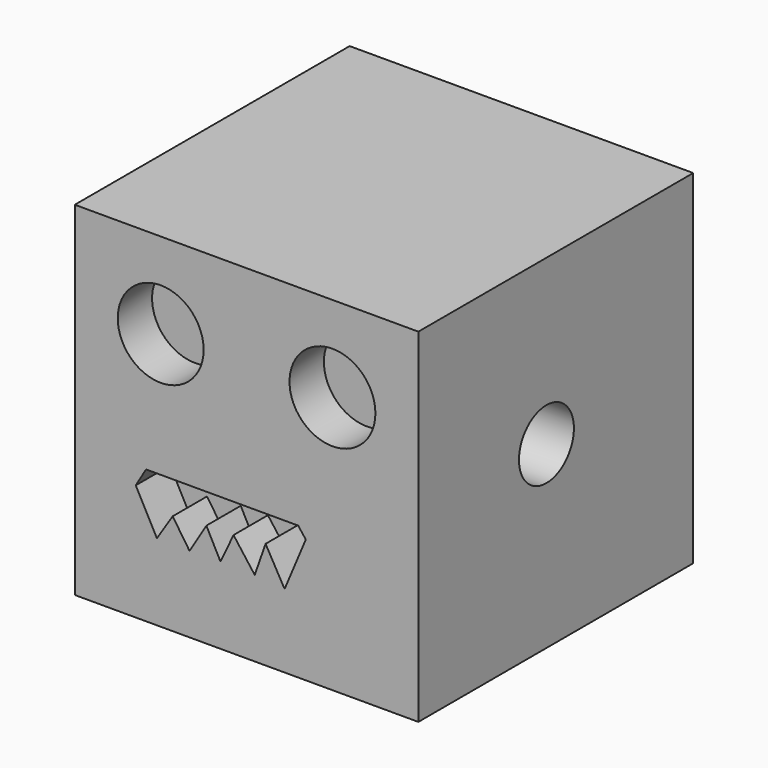
from build123d import *

# Parameters (mm, degrees)
F0_W     = 20
F0_H     = 20
F1_DEPTH = 20
F2_R     = 2.5
F3_DEPTH = 2.5
F4_R     = 2.5
F5_DEPTH = 2.5
F7_DEPTH = 2.5
F8_R     = 2
F9_DEPTH = 6


with BuildPart() as f1:
    # F0 (on Front) → F1 (new body)
    with BuildSketch(Plane.XZ):
        with Locations((-28.577724, 9.489656)):
            Rectangle(F0_W, F0_H)
    extrude(amount=F1_DEPTH)

    # F2 (on face) → F3 (cut)
    with BuildSketch(Plane.XZ.offset(20)):
        with Locations((-33.577724, 14.489656)):
            Circle(F2_R)
    extrude(amount=-F3_DEPTH, mode=Mode.SUBTRACT)

    # F4 (on face) → F5 (cut)
    with BuildSketch(Plane.XZ.offset(20)):
        with Locations((-23.577724, 14.489656)):
            Circle(F4_R)
    extrude(amount=-F5_DEPTH, mode=Mode.SUBTRACT)

    # F6 (on face) → F7 (cut)
    with BuildSketch(Plane.XZ.offset(20)):
        Polygon((-34.428626, 7.275801), (-35.029531, 6.263753), (-33.796098, 3.955018), (-32.878928, 5.37821), (-31.898506, 3.923391), (-30.918086, 5.536343), (-30.095795, 3.955018), (-29.33676, 5.56797), (-28.103326, 3.923391), (-27.470795, 5.726102), (-26.363868, 3.765259), (-25.130434, 6.706524), (-25.573205, 7.275801), align=None)
    extrude(amount=-F7_DEPTH, mode=Mode.SUBTRACT)

    # F8 (on face) → F9 (cut)
    with BuildSketch(Plane.YZ.offset(-18.577724)):
        with Locations((-10.681243, 9.938739)):
            Circle(F8_R)
    extrude(amount=-F9_DEPTH, mode=Mode.SUBTRACT)


solid = f1.part
